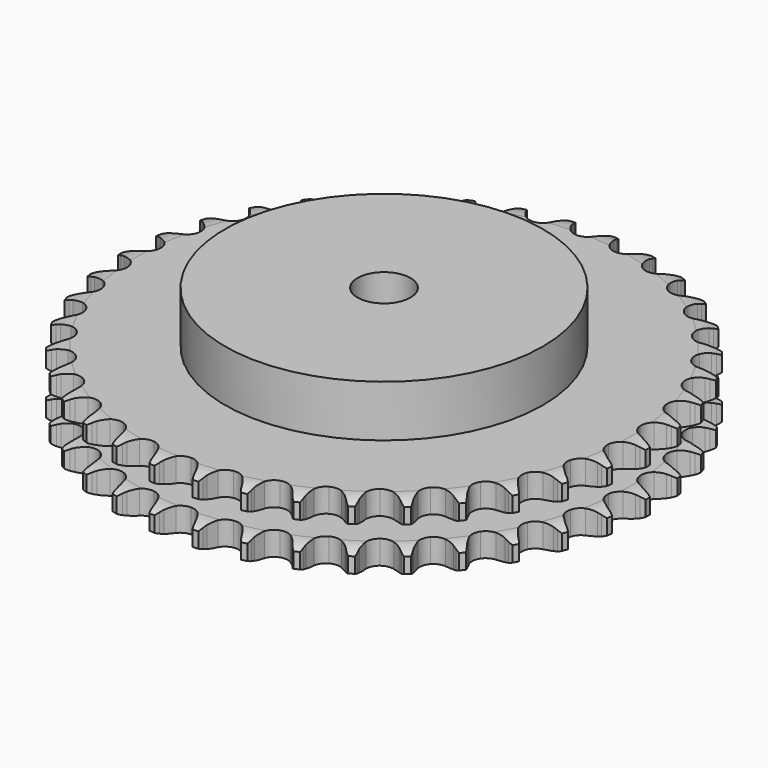
from build123d import *

# Parameters (mm, degrees)
PAD_DEPTH         = 25.5
SKETCH001_R       = 60
PAD001_DEPTH      = 45
SKETCH002_R       = 10
POCKET_DEPTH      = 0.001
POCKET_DEPTH_BACK = 45.001


with BuildPart() as part:
    # Sprocket → Pad (new body)
    with BuildSketch(Plane.XY):
        with BuildLine():
            ThreePointArc((-8.350237, 100.772379), (-7.228686, 99.376004), (-6.43536, 97.770273))
            Line((-6.43536, 97.770273), (-5.939875, 96.41282))
            ThreePointArc((-5.939875, 96.41282), (-5.15644, 94.668313), (-4.130418, 93.054512))
            ThreePointArc((-4.130418, 93.054512), (-2.311916, 91.525046), (0, 90.976177))
            ThreePointArc((0, 90.976177), (2.311916, 91.525046), (4.130418, 93.054512))
            ThreePointArc((4.130418, 93.054512), (5.15644, 94.668313), (5.939875, 96.41282))
            Line((5.939875, 96.41282), (6.43536, 97.770273))
            ThreePointArc((6.43536, 97.770273), (7.228686, 99.376004), (8.350237, 100.772379))
            ThreePointArc((8.350237, 100.772379), (9.226656, 99.210448), (9.744868, 97.49604))
            Line((9.744868, 97.49604), (10.010166, 96.075546))
            ThreePointArc((10.010166, 96.075546), (10.495779, 94.225883), (11.242185, 92.465214))
            ThreePointArc((11.242185, 92.465214), (12.784143, 90.657292), (14.974187, 89.73538))
            ThreePointArc((14.974187, 89.73538), (17.344912, 89.896234), (19.390354, 91.105525))
            Line((19.390354, 91.105525), (21.727892, 94.120204))
            ThreePointArc((21.727892, 94.120204), (22.066844, 94.758596), (22.440048, 95.377589))
            ThreePointArc((22.440048, 95.377589), (23.486849, 96.830843), (24.822939, 98.023571))
            ThreePointArc((24.822939, 98.023571), (25.43032, 96.338689), (25.659281, 94.562368))
            Line((25.659281, 94.562368), (25.687155, 93.117582))
            ThreePointArc((25.687155, 93.117582), (25.861701, 91.213216), (26.30813, 89.353706))
            ThreePointArc((26.30813, 89.353706), (27.531483, 87.316644), (29.539916, 86.046837))
            ThreePointArc((29.539916, 86.046837), (31.904784, 85.815288), (34.121371, 86.671417))
            Line((34.121371, 86.671417), (36.923228, 89.260233))
            ThreePointArc((36.923228, 89.260233), (37.362633, 89.834129), (37.832631, 90.383252))
            ThreePointArc((37.832631, 90.383252), (39.104352, 91.644388), (40.618536, 92.600936))
            ThreePointArc((40.618536, 92.600936), (40.94031, 90.839062), (40.873776, 89.049282))
            Line((40.873776, 89.049282), (40.663466, 87.619613))
            ThreePointArc((40.663466, 87.619613), (40.522183, 85.712491), (40.656458, 83.804862))
            ThreePointArc((40.656458, 83.804862), (41.527837, 81.594226), (43.299874, 80.01116))
            ThreePointArc((43.299874, 80.01116), (45.594377, 79.393525), (47.921647, 79.873139))
            Line((47.921647, 79.873139), (51.111395, 81.965477))
            ThreePointArc((51.111395, 81.965477), (51.639267, 82.459222), (52.193237, 82.923496))
            ThreePointArc((52.193237, 82.923496), (53.65519, 83.958113), (55.306166, 84.652388))
            ThreePointArc((55.306166, 84.652388), (55.333556, 82.861582), (54.973341, 81.107163))
            Line((54.973341, 81.107163), (54.530584, 79.731609))
            ThreePointArc((54.530584, 79.731609), (54.077325, 77.873752), (53.895784, 75.97004))
            ThreePointArc((53.895784, 75.97004), (54.39142, 73.64613), (55.878724, 71.792987))
            ThreePointArc((55.878724, 71.792987), (58.040274, 70.806113), (60.414744, 70.896129))
            Line((60.414744, 70.896129), (63.905376, 72.434915))
            ThreePointArc((63.905376, 72.434915), (64.507317, 72.835041), (65.130148, 73.201803))
            ThreePointArc((65.130148, 73.201803), (66.742454, 73.98168), (68.485187, 74.394744))
            ThreePointArc((68.485187, 74.394744), (68.217447, 72.623854), (67.573377, 70.952653))
            Line((67.573377, 70.952653), (66.910249, 69.668735))
            ThreePointArc((66.910249, 69.668735), (66.15738, 67.91082), (65.664973, 66.062953))
            ThreePointArc((65.664973, 66.062953), (65.771346, 63.689159), (66.933349, 61.616488))
            ThreePointArc((66.933349, 61.616488), (68.902983, 60.287295), (71.259885, 59.985258))
            Line((71.259885, 59.985258), (74.956185, 60.928518))
            ThreePointArc((74.956185, 60.928518), (75.615775, 61.224111), (76.290479, 61.483356))
            ThreePointArc((76.290479, 61.483356), (78.009159, 61.987219), (79.796111, 62.107806))
            ThreePointArc((79.796111, 62.107806), (79.240543, 60.405136), (78.330187, 58.862739))
            Line((78.330187, 58.862739), (77.464778, 57.705479))
            ThreePointArc((77.464778, 57.705479), (76.432833, 56.095458), (75.642993, 54.353841))
            ThreePointArc((75.642993, 54.353841), (75.357202, 51.994914), (76.162206, 49.759252))
            ThreePointArc((76.162206, 49.759252), (77.886199, 48.123996), (80.161242, 47.438146))
            Line((80.161242, 47.438146), (83.962385, 47.76015))
            ThreePointArc((83.962385, 47.76015), (84.661632, 47.943147), (85.369804, 48.087803))
            ThreePointArc((85.369804, 48.087803), (87.147976, 48.301909), (88.930404, 48.126728))
            ThreePointArc((88.930404, 48.126728), (88.102164, 46.538724), (86.950354, 45.167203))
            Line((86.950354, 45.167203), (85.906269, 44.168168))
            ThreePointArc((85.906269, 44.168168), (84.623398, 42.749959), (83.55767, 41.162098))
            ThreePointArc((83.55767, 41.162098), (82.887509, 38.882384), (83.313556, 36.544714))
            ThreePointArc((83.313556, 36.544714), (84.744882, 34.648001), (86.87601, 33.597045))
            Line((86.87601, 33.597045), (90.67831, 33.28901))
            ThreePointArc((90.67831, 33.28901), (91.39814, 33.354418), (92.120463, 33.38054))
            ThreePointArc((92.120463, 33.38054), (93.909624, 33.299048), (95.638909, 32.832879))
            ThreePointArc((95.638909, 32.832879), (94.560588, 31.402857), (93.198741, 30.239623))
            Line((93.198741, 30.239623), (92.004461, 29.426065))
            ThreePointArc((92.004461, 29.426065), (90.505657, 28.238351), (89.193111, 26.847561))
            ThreePointArc((89.193111, 26.847561), (88.156862, 24.709243), (88.19233, 22.333331))
            ThreePointArc((88.19233, 22.333331), (89.291946, 20.226898), (91.221026, 18.839504))
            Line((91.221026, 18.839504), (94.920767, 17.909832))
            ThreePointArc((94.920767, 17.909832), (95.641545, 17.855868), (96.358317, 17.762743))
            ThreePointArc((96.358317, 17.762743), (98.109663, 17.387877), (99.738633, 16.643434))
            ThreePointArc((99.738633, 16.643434), (98.439645, 15.410402), (96.90491, 14.487185))
            Line((96.90491, 14.487185), (95.593011, 13.881295))
            ThreePointArc((95.593011, 13.881295), (93.919157, 12.956476), (92.395596, 11.800691))
            ThreePointArc((92.395596, 11.800691), (91.021525, 9.862098), (90.665447, 7.512753))
            ThreePointArc((90.665447, 7.512753), (91.403358, 5.254058), (93.077771, 3.56807))
            Line((93.077771, 3.56807), (96.574033, 2.04212))
            ThreePointArc((96.574033, 2.04212), (97.276098, 1.870256), (97.967766, 1.660425))
            ThreePointArc((97.967766, 1.660425), (99.633525, 1.002409), (101.117747, 0))
            ThreePointArc((101.117747, 0), (99.633525, -1.002409), (97.967766, -1.660425))
            Line((97.967766, -1.660425), (96.574033, -2.04212))
            ThreePointArc((96.574033, -2.04212), (94.770788, -2.678819), (93.077771, -3.56807))
            ThreePointArc((93.077771, -3.56807), (91.403358, -5.254058), (90.665447, -7.512753))
            ThreePointArc((90.665447, -7.512753), (91.021525, -9.862098), (92.395596, -11.800691))
            Line((92.395596, -11.800691), (95.593011, -13.881295))
            ThreePointArc((95.593011, -13.881295), (96.257213, -14.166371), (96.90491, -14.487185))
            ThreePointArc((96.90491, -14.487185), (98.439645, -15.410402), (99.738633, -16.643434))
            ThreePointArc((99.738633, -16.643434), (98.109663, -17.387877), (96.358317, -17.762743))
            Line((96.358317, -17.762743), (94.920767, -17.909832))
            ThreePointArc((94.920767, -17.909832), (93.037319, -18.241042), (91.221026, -18.839504))
            ThreePointArc((91.221026, -18.839504), (89.291946, -20.226898), (88.19233, -22.333331))
            ThreePointArc((88.19233, -22.333331), (88.156862, -24.709243), (89.193111, -26.847561))
            Line((89.193111, -26.847561), (92.004461, -29.426065))
            ThreePointArc((92.004461, -29.426065), (92.612682, -29.816577), (93.198741, -30.239623))
            ThreePointArc((93.198741, -30.239623), (94.560588, -31.402857), (95.638909, -32.832879))
            ThreePointArc((95.638909, -32.832879), (93.909624, -33.299048), (92.120463, -33.38054))
            Line((92.120463, -33.38054), (90.67831, -33.28901))
            ThreePointArc((90.67831, -33.28901), (88.766034, -33.305698), (86.87601, -33.597045))
            ThreePointArc((86.87601, -33.597045), (84.744882, -34.648001), (83.313556, -36.544714))
            ThreePointArc((83.313556, -36.544714), (82.887509, -38.882384), (83.55767, -41.162098))
            Line((83.55767, -41.162098), (85.906269, -44.168168))
            ThreePointArc((85.906269, -44.168168), (86.441919, -44.653464), (86.950354, -45.167203))
            ThreePointArc((86.950354, -45.167203), (88.102164, -46.538724), (88.930404, -48.126728))
            ThreePointArc((88.930404, -48.126728), (87.147976, -48.301909), (85.369804, -48.087803))
            Line((85.369804, -48.087803), (83.962385, -47.76015))
            ThreePointArc((83.962385, -47.76015), (82.073444, -47.461861), (80.161242, -47.438146))
            ThreePointArc((80.161242, -47.438146), (77.886199, -48.123996), (76.162206, -49.759252))
            ThreePointArc((76.162206, -49.759252), (75.357202, -51.994914), (75.642993, -54.353841))
            Line((75.642993, -54.353841), (77.464778, -57.705479))
            ThreePointArc((77.464778, -57.705479), (77.913245, -58.272321), (78.330187, -58.862739))
            ThreePointArc((78.330187, -58.862739), (79.240543, -60.405136), (79.796111, -62.107806))
            ThreePointArc((79.796111, -62.107806), (78.009159, -61.987219), (76.290479, -61.483356))
            Line((76.290479, -61.483356), (74.956185, -60.928518))
            ThreePointArc((74.956185, -60.928518), (73.142103, -60.323387), (71.259885, -59.985258))
            ThreePointArc((71.259885, -59.985258), (68.902983, -60.287295), (66.933349, -61.616488))
            ThreePointArc((66.933349, -61.616488), (65.771346, -63.689159), (65.664973, -66.062953))
            Line((65.664973, -66.062953), (66.910249, -69.668735))
            ThreePointArc((66.910249, -69.668735), (67.259301, -70.301661), (67.573377, -70.952653))
            ThreePointArc((67.573377, -70.952653), (68.217447, -72.623854), (68.485187, -74.394744))
            ThreePointArc((68.485187, -74.394744), (66.742454, -73.98168), (65.130148, -73.201803))
            Line((65.130148, -73.201803), (63.905376, -72.434915))
            ThreePointArc((63.905376, -72.434915), (62.215637, -71.53945), (60.414744, -70.896129))
            ThreePointArc((60.414744, -70.896129), (58.040274, -70.806113), (55.878724, -71.792987))
            ThreePointArc((55.878724, -71.792987), (54.39142, -73.64613), (53.895784, -75.97004))
            Line((53.895784, -75.97004), (54.530584, -79.731609))
            ThreePointArc((54.530584, -79.731609), (54.770699, -80.413356), (54.973341, -81.107163))
            ThreePointArc((54.973341, -81.107163), (55.333556, -82.861582), (55.306166, -84.652388))
            ThreePointArc((55.306166, -84.652388), (53.65519, -83.958113), (52.193237, -82.923496))
            Line((52.193237, -82.923496), (51.111395, -81.965477))
            ThreePointArc((51.111395, -81.965477), (49.592091, -80.804102), (47.921647, -79.873139))
            ThreePointArc((47.921647, -79.873139), (45.594377, -79.393525), (43.299874, -80.01116))
            ThreePointArc((43.299874, -80.01116), (41.527837, -81.594226), (40.656458, -83.804862))
            Line((40.656458, -83.804862), (40.663466, -87.619613))
            ThreePointArc((40.663466, -87.619613), (40.788094, -88.331583), (40.873776, -89.049282))
            ThreePointArc((40.873776, -89.049282), (40.94031, -90.839062), (40.618536, -92.600936))
            ThreePointArc((40.618536, -92.600936), (39.104352, -91.644388), (37.832631, -90.383252))
            Line((37.832631, -90.383252), (36.923228, -89.260233))
            ThreePointArc((36.923228, -89.260233), (35.615801, -87.864629), (34.121371, -86.671417))
            ThreePointArc((34.121371, -86.671417), (31.904784, -85.815288), (29.539916, -86.046837))
            ThreePointArc((29.539916, -86.046837), (27.531483, -87.316644), (26.30813, -89.353706))
            Line((26.30813, -89.353706), (25.687155, -93.117582))
            ThreePointArc((25.687155, -93.117582), (25.692897, -93.840355), (25.659281, -94.562368))
            ThreePointArc((25.659281, -94.562368), (25.43032, -96.338689), (24.822939, -98.023571))
            ThreePointArc((24.822939, -98.023571), (23.486849, -96.830843), (22.440048, -95.377589))
            Line((22.440048, -95.377589), (21.727892, -94.120204))
            ThreePointArc((21.727892, -94.120204), (20.668005, -92.528438), (19.390354, -91.105525))
            ThreePointArc((19.390354, -91.105525), (17.344912, -89.896234), (14.974187, -89.73538))
            ThreePointArc((14.974187, -89.73538), (12.784143, -90.657292), (11.242185, -92.465214))
            Line((11.242185, -92.465214), (10.010166, -96.075546))
            ThreePointArc((10.010166, -96.075546), (9.896865, -96.789407), (9.744868, -97.49604))
            ThreePointArc((9.744868, -97.49604), (9.226656, -99.210448), (8.350237, -100.772379))
            ThreePointArc((8.350237, -100.772379), (7.228686, -99.376004), (6.43536, -97.770273))
            Line((6.43536, -97.770273), (5.939875, -96.41282))
            ThreePointArc((5.939875, -96.41282), (5.15644, -94.668313), (4.130418, -93.054512))
            ThreePointArc((4.130418, -93.054512), (2.311916, -91.525046), (0, -90.976177))
            ThreePointArc((0, -90.976177), (-2.311916, -91.525046), (-4.130418, -93.054512))
            Line((-4.130418, -93.054512), (-5.939875, -96.41282))
            ThreePointArc((-5.939875, -96.41282), (-6.169128, -97.098296), (-6.43536, -97.770273))
            ThreePointArc((-6.43536, -97.770273), (-7.228686, -99.376004), (-8.350237, -100.772379))
            ThreePointArc((-8.350237, -100.772379), (-9.226656, -99.210448), (-9.744868, -97.49604))
            Line((-9.744868, -97.49604), (-10.010166, -96.075546))
            ThreePointArc((-10.010166, -96.075546), (-10.495779, -94.225883), (-11.242185, -92.465214))
            ThreePointArc((-11.242185, -92.465214), (-12.784143, -90.657292), (-14.974187, -89.73538))
            ThreePointArc((-14.974187, -89.73538), (-17.344912, -89.896234), (-19.390354, -91.105525))
            Line((-19.390354, -91.105525), (-21.727892, -94.120204))
            ThreePointArc((-21.727892, -94.120204), (-22.066844, -94.758596), (-22.440048, -95.377589))
            ThreePointArc((-22.440048, -95.377589), (-23.486849, -96.830843), (-24.822939, -98.023571))
            ThreePointArc((-24.822939, -98.023571), (-25.43032, -96.338689), (-25.659281, -94.562368))
            Line((-25.659281, -94.562368), (-25.687155, -93.117582))
            ThreePointArc((-25.687155, -93.117582), (-25.861701, -91.213216), (-26.30813, -89.353706))
            ThreePointArc((-26.30813, -89.353706), (-27.531483, -87.316644), (-29.539916, -86.046837))
            ThreePointArc((-29.539916, -86.046837), (-31.904784, -85.815288), (-34.121371, -86.671417))
            Line((-34.121371, -86.671417), (-36.923228, -89.260233))
            ThreePointArc((-36.923228, -89.260233), (-37.362633, -89.834129), (-37.832631, -90.383252))
            ThreePointArc((-37.832631, -90.383252), (-39.104352, -91.644388), (-40.618536, -92.600936))
            ThreePointArc((-40.618536, -92.600936), (-40.94031, -90.839062), (-40.873776, -89.049282))
            Line((-40.873776, -89.049282), (-40.663466, -87.619613))
            ThreePointArc((-40.663466, -87.619613), (-40.522183, -85.712491), (-40.656458, -83.804862))
            ThreePointArc((-40.656458, -83.804862), (-41.527837, -81.594226), (-43.299874, -80.01116))
            ThreePointArc((-43.299874, -80.01116), (-45.594377, -79.393525), (-47.921647, -79.873139))
            Line((-47.921647, -79.873139), (-51.111395, -81.965477))
            ThreePointArc((-51.111395, -81.965477), (-51.639267, -82.459222), (-52.193237, -82.923496))
            ThreePointArc((-52.193237, -82.923496), (-53.65519, -83.958113), (-55.306166, -84.652388))
            ThreePointArc((-55.306166, -84.652388), (-55.333556, -82.861582), (-54.973341, -81.107163))
            Line((-54.973341, -81.107163), (-54.530584, -79.731609))
            ThreePointArc((-54.530584, -79.731609), (-54.077325, -77.873752), (-53.895784, -75.97004))
            ThreePointArc((-53.895784, -75.97004), (-54.39142, -73.64613), (-55.878724, -71.792987))
            ThreePointArc((-55.878724, -71.792987), (-58.040274, -70.806113), (-60.414744, -70.896129))
            Line((-60.414744, -70.896129), (-63.905376, -72.434915))
            ThreePointArc((-63.905376, -72.434915), (-64.507317, -72.835041), (-65.130148, -73.201803))
            ThreePointArc((-65.130148, -73.201803), (-66.742454, -73.98168), (-68.485187, -74.394744))
            ThreePointArc((-68.485187, -74.394744), (-68.217447, -72.623854), (-67.573377, -70.952653))
            Line((-67.573377, -70.952653), (-66.910249, -69.668735))
            ThreePointArc((-66.910249, -69.668735), (-66.15738, -67.91082), (-65.664973, -66.062953))
            ThreePointArc((-65.664973, -66.062953), (-65.771346, -63.689159), (-66.933349, -61.616488))
            ThreePointArc((-66.933349, -61.616488), (-68.902983, -60.287295), (-71.259885, -59.985258))
            Line((-71.259885, -59.985258), (-74.956185, -60.928518))
            ThreePointArc((-74.956185, -60.928518), (-75.615775, -61.224111), (-76.290479, -61.483356))
            ThreePointArc((-76.290479, -61.483356), (-78.009159, -61.987219), (-79.796111, -62.107806))
            ThreePointArc((-79.796111, -62.107806), (-79.240543, -60.405136), (-78.330187, -58.862739))
            Line((-78.330187, -58.862739), (-77.464778, -57.705479))
            ThreePointArc((-77.464778, -57.705479), (-76.432833, -56.095458), (-75.642993, -54.353841))
            ThreePointArc((-75.642993, -54.353841), (-75.357202, -51.994914), (-76.162206, -49.759252))
            ThreePointArc((-76.162206, -49.759252), (-77.886199, -48.123996), (-80.161242, -47.438146))
            Line((-80.161242, -47.438146), (-83.962385, -47.76015))
            ThreePointArc((-83.962385, -47.76015), (-84.661632, -47.943147), (-85.369804, -48.087803))
            ThreePointArc((-85.369804, -48.087803), (-87.147976, -48.301909), (-88.930404, -48.126728))
            ThreePointArc((-88.930404, -48.126728), (-88.102164, -46.538724), (-86.950354, -45.167203))
            Line((-86.950354, -45.167203), (-85.906269, -44.168168))
            ThreePointArc((-85.906269, -44.168168), (-84.623398, -42.749959), (-83.55767, -41.162098))
            ThreePointArc((-83.55767, -41.162098), (-82.887509, -38.882384), (-83.313556, -36.544714))
            ThreePointArc((-83.313556, -36.544714), (-84.744882, -34.648001), (-86.87601, -33.597045))
            Line((-86.87601, -33.597045), (-90.67831, -33.28901))
            ThreePointArc((-90.67831, -33.28901), (-91.39814, -33.354418), (-92.120463, -33.38054))
            ThreePointArc((-92.120463, -33.38054), (-93.909624, -33.299048), (-95.638909, -32.832879))
            ThreePointArc((-95.638909, -32.832879), (-94.560588, -31.402857), (-93.198741, -30.239623))
            Line((-93.198741, -30.239623), (-92.004461, -29.426065))
            ThreePointArc((-92.004461, -29.426065), (-90.505657, -28.238351), (-89.193111, -26.847561))
            ThreePointArc((-89.193111, -26.847561), (-88.156862, -24.709243), (-88.19233, -22.333331))
            ThreePointArc((-88.19233, -22.333331), (-89.291946, -20.226898), (-91.221026, -18.839504))
            Line((-91.221026, -18.839504), (-94.920767, -17.909832))
            ThreePointArc((-94.920767, -17.909832), (-95.641545, -17.855868), (-96.358317, -17.762743))
            ThreePointArc((-96.358317, -17.762743), (-98.109663, -17.387877), (-99.738633, -16.643434))
            ThreePointArc((-99.738633, -16.643434), (-98.439645, -15.410402), (-96.90491, -14.487185))
            Line((-96.90491, -14.487185), (-95.593011, -13.881295))
            ThreePointArc((-95.593011, -13.881295), (-93.919157, -12.956476), (-92.395596, -11.800691))
            ThreePointArc((-92.395596, -11.800691), (-91.021525, -9.862098), (-90.665447, -7.512753))
            ThreePointArc((-90.665447, -7.512753), (-91.403358, -5.254058), (-93.077771, -3.56807))
            Line((-93.077771, -3.56807), (-96.574033, -2.04212))
            ThreePointArc((-96.574033, -2.04212), (-97.276098, -1.870256), (-97.967766, -1.660425))
            ThreePointArc((-97.967766, -1.660425), (-99.633525, -1.002409), (-101.117747, 0))
            ThreePointArc((-101.117747, 0), (-99.633525, 1.002409), (-97.967766, 1.660425))
            Line((-97.967766, 1.660425), (-96.574033, 2.04212))
            ThreePointArc((-96.574033, 2.04212), (-94.770788, 2.678819), (-93.077771, 3.56807))
            ThreePointArc((-93.077771, 3.56807), (-91.403358, 5.254058), (-90.665447, 7.512753))
            ThreePointArc((-90.665447, 7.512753), (-91.021525, 9.862098), (-92.395596, 11.800691))
            Line((-92.395596, 11.800691), (-95.593011, 13.881295))
            ThreePointArc((-95.593011, 13.881295), (-96.257213, 14.166371), (-96.90491, 14.487185))
            ThreePointArc((-96.90491, 14.487185), (-98.439645, 15.410402), (-99.738633, 16.643434))
            ThreePointArc((-99.738633, 16.643434), (-98.109663, 17.387877), (-96.358317, 17.762743))
            Line((-96.358317, 17.762743), (-94.920767, 17.909832))
            ThreePointArc((-94.920767, 17.909832), (-93.037319, 18.241042), (-91.221026, 18.839504))
            ThreePointArc((-91.221026, 18.839504), (-89.291946, 20.226898), (-88.19233, 22.333331))
            ThreePointArc((-88.19233, 22.333331), (-88.156862, 24.709243), (-89.193111, 26.847561))
            Line((-89.193111, 26.847561), (-92.004461, 29.426065))
            ThreePointArc((-92.004461, 29.426065), (-92.612682, 29.816577), (-93.198741, 30.239623))
            ThreePointArc((-93.198741, 30.239623), (-94.560588, 31.402857), (-95.638909, 32.832879))
            ThreePointArc((-95.638909, 32.832879), (-93.909624, 33.299048), (-92.120463, 33.38054))
            Line((-92.120463, 33.38054), (-90.67831, 33.28901))
            ThreePointArc((-90.67831, 33.28901), (-88.766034, 33.305698), (-86.87601, 33.597045))
            ThreePointArc((-86.87601, 33.597045), (-84.744882, 34.648001), (-83.313556, 36.544714))
            ThreePointArc((-83.313556, 36.544714), (-82.887509, 38.882384), (-83.55767, 41.162098))
            Line((-83.55767, 41.162098), (-85.906269, 44.168168))
            ThreePointArc((-85.906269, 44.168168), (-86.441919, 44.653464), (-86.950354, 45.167203))
            ThreePointArc((-86.950354, 45.167203), (-88.102164, 46.538724), (-88.930404, 48.126728))
            ThreePointArc((-88.930404, 48.126728), (-87.147976, 48.301909), (-85.369804, 48.087803))
            Line((-85.369804, 48.087803), (-83.962385, 47.76015))
            ThreePointArc((-83.962385, 47.76015), (-82.073444, 47.461861), (-80.161242, 47.438146))
            ThreePointArc((-80.161242, 47.438146), (-77.886199, 48.123996), (-76.162206, 49.759252))
            ThreePointArc((-76.162206, 49.759252), (-75.357202, 51.994914), (-75.642993, 54.353841))
            Line((-75.642993, 54.353841), (-77.464778, 57.705479))
            ThreePointArc((-77.464778, 57.705479), (-77.913245, 58.272321), (-78.330187, 58.862739))
            ThreePointArc((-78.330187, 58.862739), (-79.240543, 60.405136), (-79.796111, 62.107806))
            ThreePointArc((-79.796111, 62.107806), (-78.009159, 61.987219), (-76.290479, 61.483356))
            Line((-76.290479, 61.483356), (-74.956185, 60.928518))
            ThreePointArc((-74.956185, 60.928518), (-73.142103, 60.323387), (-71.259885, 59.985258))
            ThreePointArc((-71.259885, 59.985258), (-68.902983, 60.287295), (-66.933349, 61.616488))
            ThreePointArc((-66.933349, 61.616488), (-65.771346, 63.689159), (-65.664973, 66.062953))
            Line((-65.664973, 66.062953), (-66.910249, 69.668735))
            ThreePointArc((-66.910249, 69.668735), (-67.259301, 70.301661), (-67.573377, 70.952653))
            ThreePointArc((-67.573377, 70.952653), (-68.217447, 72.623854), (-68.485187, 74.394744))
            ThreePointArc((-68.485187, 74.394744), (-66.742454, 73.98168), (-65.130148, 73.201803))
            Line((-65.130148, 73.201803), (-63.905376, 72.434915))
            ThreePointArc((-63.905376, 72.434915), (-62.215637, 71.53945), (-60.414744, 70.896129))
            ThreePointArc((-60.414744, 70.896129), (-58.040274, 70.806113), (-55.878724, 71.792987))
            ThreePointArc((-55.878724, 71.792987), (-54.39142, 73.64613), (-53.895784, 75.97004))
            Line((-53.895784, 75.97004), (-54.530584, 79.731609))
            ThreePointArc((-54.530584, 79.731609), (-54.770699, 80.413356), (-54.973341, 81.107163))
            ThreePointArc((-54.973341, 81.107163), (-55.333556, 82.861582), (-55.306166, 84.652388))
            ThreePointArc((-55.306166, 84.652388), (-53.65519, 83.958113), (-52.193237, 82.923496))
            Line((-52.193237, 82.923496), (-51.111395, 81.965477))
            ThreePointArc((-51.111395, 81.965477), (-49.592091, 80.804102), (-47.921647, 79.873139))
            ThreePointArc((-47.921647, 79.873139), (-45.594377, 79.393525), (-43.299874, 80.01116))
            ThreePointArc((-43.299874, 80.01116), (-41.527837, 81.594226), (-40.656458, 83.804862))
            Line((-40.656458, 83.804862), (-40.663466, 87.619613))
            ThreePointArc((-40.663466, 87.619613), (-40.788094, 88.331583), (-40.873776, 89.049282))
            ThreePointArc((-40.873776, 89.049282), (-40.94031, 90.839062), (-40.618536, 92.600936))
            ThreePointArc((-40.618536, 92.600936), (-39.104352, 91.644388), (-37.832631, 90.383252))
            Line((-37.832631, 90.383252), (-36.923228, 89.260233))
            ThreePointArc((-36.923228, 89.260233), (-35.615801, 87.864629), (-34.121371, 86.671417))
            ThreePointArc((-34.121371, 86.671417), (-31.904784, 85.815288), (-29.539916, 86.046837))
            ThreePointArc((-29.539916, 86.046837), (-27.531483, 87.316644), (-26.30813, 89.353706))
            Line((-26.30813, 89.353706), (-25.687155, 93.117582))
            ThreePointArc((-25.687155, 93.117582), (-25.692897, 93.840355), (-25.659281, 94.562368))
            ThreePointArc((-25.659281, 94.562368), (-25.43032, 96.338689), (-24.822939, 98.023571))
            ThreePointArc((-24.822939, 98.023571), (-23.486849, 96.830843), (-22.440048, 95.377589))
            Line((-22.440048, 95.377589), (-21.727892, 94.120204))
            ThreePointArc((-21.727892, 94.120204), (-20.668005, 92.528438), (-19.390354, 91.105525))
            ThreePointArc((-19.390354, 91.105525), (-17.344912, 89.896234), (-14.974187, 89.73538))
            ThreePointArc((-14.974187, 89.73538), (-12.784143, 90.657292), (-11.242185, 92.465214))
            Line((-11.242185, 92.465214), (-10.010166, 96.075546))
            ThreePointArc((-10.010166, 96.075546), (-9.896865, 96.789407), (-9.744868, 97.49604))
            ThreePointArc((-9.744868, 97.49604), (-9.226656, 99.210448), (-8.350237, 100.772379))
        make_face()
    extrude(amount=PAD_DEPTH)

    # Sketch → Groove (revolve, cut)
    with BuildSketch(Plane.XZ):
        with BuildLine():
            ThreePointArc((92.625762, 0), (96.20347, 0.405129), (99.6, 1.6))
            Line((99.6, 1.6), (99.6, 7.4))
            ThreePointArc((99.6, 7.4), (96.20347, 8.594871), (92.625762, 9))
            Line((60, 9), (92.625762, 9))
            Line((60, 16.5), (60, 9))
            Line((92.625762, 16.5), (60, 16.5))
            ThreePointArc((92.625762, 16.5), (96.20347, 16.905129), (99.6, 18.1))
            Line((99.6, 18.1), (99.6, 23.9))
            ThreePointArc((99.6, 23.9), (96.20347, 25.094871), (92.625762, 25.5))
            Line((92.625762, 25.5), (102.625762, 25.5))
            Line((102.625762, 25.5), (102.625762, 0))
            Line((92.625762, 0), (102.625762, 0))
        make_face()
    revolve(axis=Axis((0, 0, 0), (0, 0, 1)), mode=Mode.SUBTRACT)

    # Sketch001 → Pad001 (join)
    with BuildSketch(Plane.XY):
        Circle(SKETCH001_R)
    extrude(amount=PAD001_DEPTH)

    # Sketch002 → Pocket (cut, two sides)
    with BuildSketch(Plane.XY) as pocket_sk:
        Circle(SKETCH002_R)
    extrude(amount=-POCKET_DEPTH, mode=Mode.SUBTRACT)
    extrude(pocket_sk.sketch, amount=POCKET_DEPTH_BACK, mode=Mode.SUBTRACT)


solid = part.part
